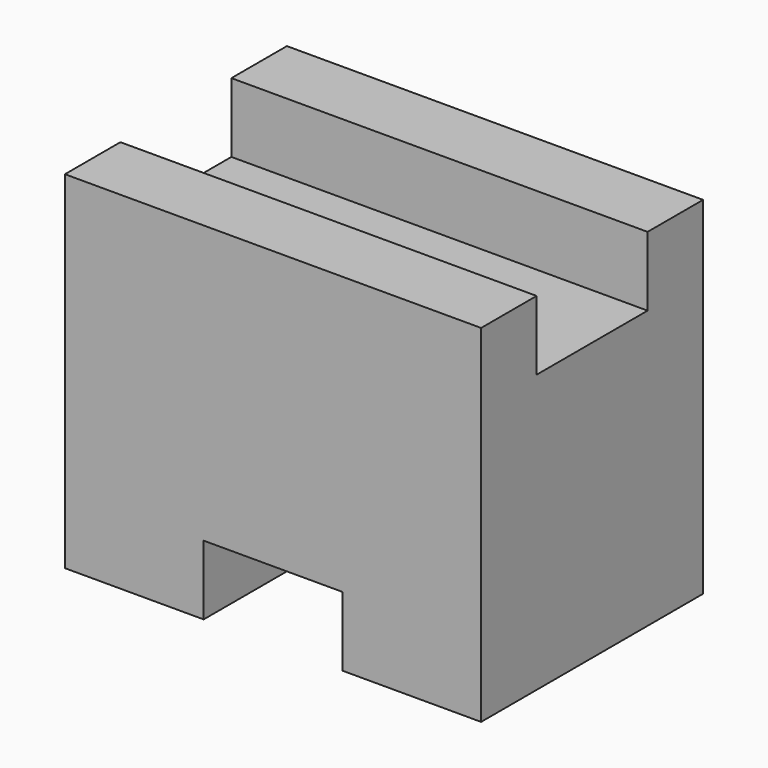
from build123d import *

# Parameters (mm, degrees)
F1_DEPTH = 25.4
F2_W     = 12.7
F2_H     = 6.35
F3_DEPTH = 38.1


with BuildPart() as f1:
    # F0 (on Front) → F1 (new body)
    with BuildSketch(Plane.XZ):
        Polygon((-12.7, 0), (0, 0), (0, 31.75), (-38.1, 31.75), (-38.1, 0), (-25.4, 0), (-25.4, 6.35), (-12.7, 6.35), align=None)
    extrude(amount=-F1_DEPTH)

    # F2 (on face) → F3 (cut)
    with BuildSketch(Plane.YZ):
        with Locations((12.7, 28.575)):
            Rectangle(F2_W, F2_H)
    extrude(amount=-F3_DEPTH, mode=Mode.SUBTRACT)


solid = f1.part
